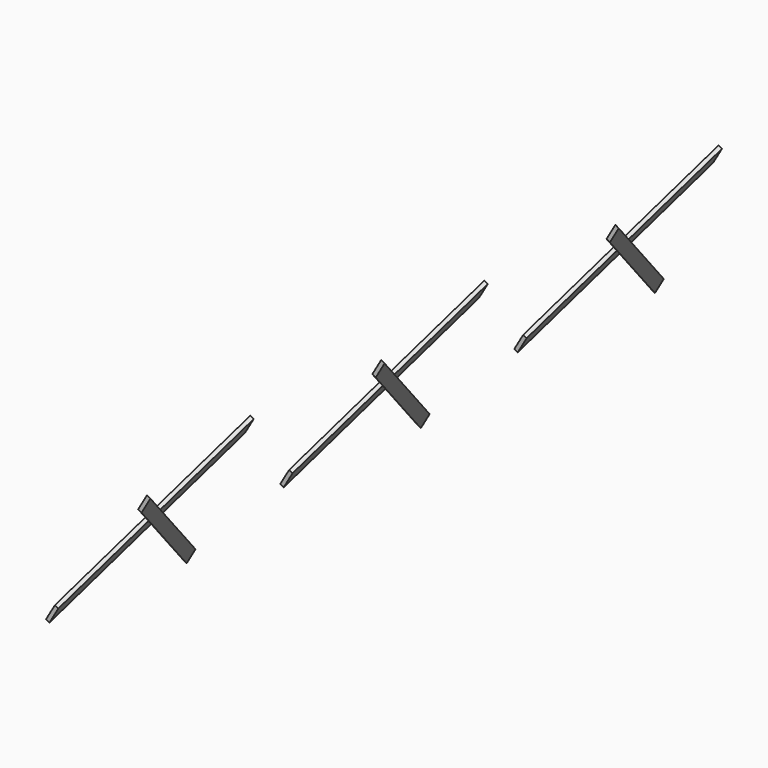
from build123d import *

# Parameters (mm, degrees)
PAD012_DEPTH          = 45
CLONE_PLACEMENT_ANGLE = 180
ARRAY002_Y_COUNT      = 3
ARRAY002_Y_PITCH      = 3390
ARRAY002_PITCH_ANGLE  = 30


with BuildPart() as pad012:
    # Sketch014 → Pad012 (new body)
    with BuildSketch(Plane(origin=(-1488.522385, 4.2e-05, 258.479584), x_dir=(0, 1, 0), z_dir=(1, 0, 0))):
        Polygon((0, 0), (0, 205.060967), (1740, 1945.060967), (1740, 1740), align=None)
    extrude(amount=-PAD012_DEPTH)


with BuildPart() as obj1:
    # Clone base: copy of Pad012
    add(pad012.part)


with BuildPart() as obj1_1:
    # Clone placement: moved
    add(obj1.part.moved(Location((-2832.044769, 0, 2526.644076))).rotate(Axis((-2832.044769, 0, 2526.644076), (0, 1, 0)), CLONE_PLACEMENT_ANGLE))

    # Compound001: union Pad012
    add(pad012.part)

    # Array002 Y: obj1_3


with BuildPart() as obj1_2:
    add(obj1_1.part)
    with Locations(*[(0, i * ARRAY002_Y_PITCH, 0) for i in range(1, ARRAY002_Y_COUNT)]):
        add(obj1_1.part)


with BuildPart() as obj1_3:
    # Array002 pitch: moved
    add(obj1_2.part.rotate(Axis((0, 0, 0), (0, 1, 0)), ARRAY002_PITCH_ANGLE))


with BuildPart() as obj1_4:
    # Array002 placement: moved
    add(obj1_3.part.moved(Location((26.583088, 144.999958, -786.001511))))


solid = obj1_4.part
